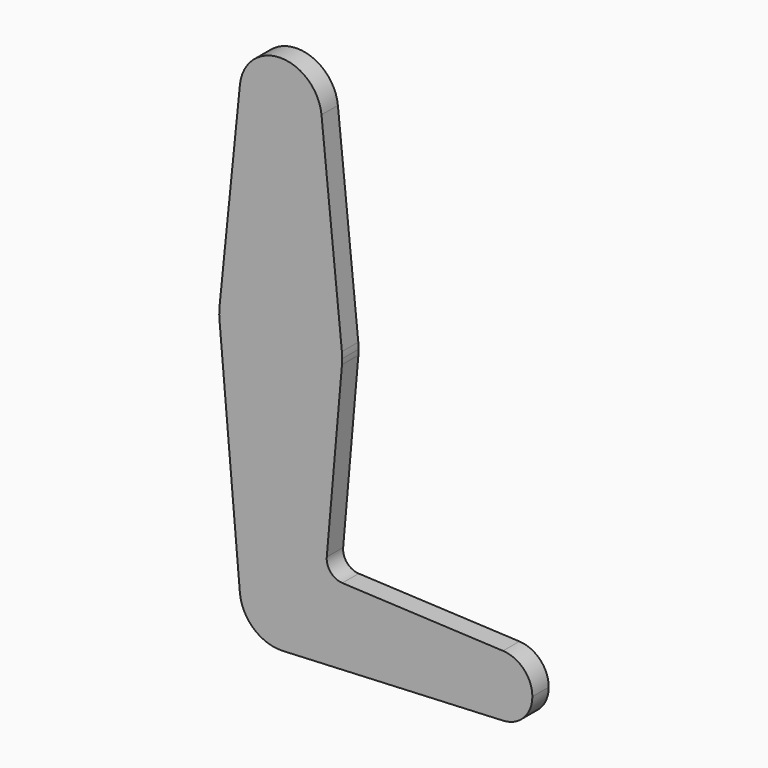
from build123d import *

# Parameters (mm, degrees)
F1_DEPTH = 6.35
F2_R     = 5.08


with BuildPart() as f1:
    # F0 (on Front) → F1 (new body)
    with BuildSketch(Plane.XZ):
        with BuildLine():
            ThreePointArc((18.9777384701, -1.657691938), (19.0319260436, -0.8296330951), (19.05, 0))
            ThreePointArc((19.05, 0), (19.0258577103, 0.9587692038), (18.9534920329, 1.9151082886))
            ThreePointArc((18.9534920329, 1.9151082886), (0, 19.05), (-18.9534920329, 1.9151082886))
            ThreePointArc((-18.9534920329, 1.9151082886), (-19.0495613397, 0.1292778667), (-18.9777384701, -1.657691938))
            ThreePointArc((-18.9777384701, -1.657691938), (0, -19.05), (18.9777384701, -1.657691938))
        make_face()
        with BuildLine():
            ThreePointArc((-18.9534920329, 1.9151082886), (0, 19.05), (18.9534920329, 1.9151082886))
            Line((18.9534920329, 1.9151082886), (12.6356613553, 64.4415743522))
            ThreePointArc((12.6356613553, 64.4415743522), (12.6839051402, 63.8040149624), (12.7, 63.1648354932))
            ThreePointArc((12.7, 63.1648354932), (-0.6391794692, 50.480930353), (-12.6356613553, 64.4415743522))
            Line((-12.6356613553, 64.4415743522), (-18.9534920329, 1.9151082886))
        make_face()
        with BuildLine():
            Line((13.8028917705, -60.9008390119), (18.9777384701, -1.657691938))
            ThreePointArc((18.9777384701, -1.657691938), (0, -19.05), (-18.9777384701, -1.657691938))
            Line((-18.9777384701, -1.657691938), (-12.6518256467, -74.0785781066))
            ThreePointArc((-12.6518256467, -74.0785781066), (-9.1612035414, -64.1778632049), (0.5892201669, -60.2871260312))
            Line((0.5892201669, -60.2871260312), (13.8028917705, -60.9008390119))
        make_face()
        with BuildLine():
            ThreePointArc((12.7, 63.1648354932), (12.6839051402, 63.8040149624), (12.6356613553, 64.4415743522))
            ThreePointArc((12.6356613553, 64.4415743522), (0, 75.8648354932), (-12.6356613553, 64.4415743522))
            ThreePointArc((-12.6356613553, 64.4415743522), (-0.6391794692, 50.480930353), (12.7, 63.1648354932))
        make_face()
        with BuildLine():
            Line((68.8755877414, -63.4587070604), (13.8028917705, -60.9008390119))
            Line((13.8028917705, -60.9008390119), (12.6518256467, -74.0785781066))
            ThreePointArc((12.6518256467, -74.0785781066), (8.795586943, -82.1346536894), (0.5892201669, -85.6597742647))
            Line((0.5892201669, -85.6597742647), (68.8755877414, -82.4881932355))
            ThreePointArc((68.8755877414, -82.4881932355), (58.9086726163, -72.973450148), (68.8755877414, -63.4587070604))
        make_face()
        with BuildLine():
            Line((12.6518256467, -74.0785781066), (13.8028917705, -60.9008390119))
            Line((13.8028917705, -60.9008390119), (0.5892201669, -60.2871260312))
            ThreePointArc((0.5892201669, -60.2871260312), (9.1862151107, -64.2039888224), (12.7, -72.973450148))
            ThreePointArc((12.7, -72.973450148), (12.6879506957, -73.526538878), (12.6518256467, -74.0785781066))
        make_face()
        with BuildLine():
            ThreePointArc((0.5892201669, -60.2871260312), (-9.1612035414, -64.1778632049), (-12.6518256467, -74.0785781066))
            ThreePointArc((-12.6518256467, -74.0785781066), (-8.3610788092, -82.5328623237), (0.5892201669, -85.6597742647))
            ThreePointArc((0.5892201669, -85.6597742647), (8.795586943, -82.1346536894), (12.6518256467, -74.0785781066))
            ThreePointArc((12.6518256467, -74.0785781066), (12.6879506957, -73.526538878), (12.7, -72.973450148))
            ThreePointArc((12.7, -72.973450148), (9.1862151107, -64.2039888224), (0.5892201669, -60.2871260312))
        make_face()
        with BuildLine():
            ThreePointArc((77.9586726163, -72.973450148), (75.3233339493, -66.3963541538), (68.8755877414, -63.4587070604))
            ThreePointArc((68.8755877414, -63.4587070604), (58.9086726163, -72.973450148), (68.8755877414, -82.4881932355))
            ThreePointArc((68.8755877414, -82.4881932355), (75.3233339493, -79.5505461421), (77.9586726163, -72.973450148))
        make_face()
    extrude(amount=F1_DEPTH)

    # F2
    f2_edges = [f1.edges().sort_by_distance(p)[0] for p in [
        (13.802892, -3.175, -60.900839),
    ]]
    fillet(f2_edges, radius=F2_R)


solid = f1.part
